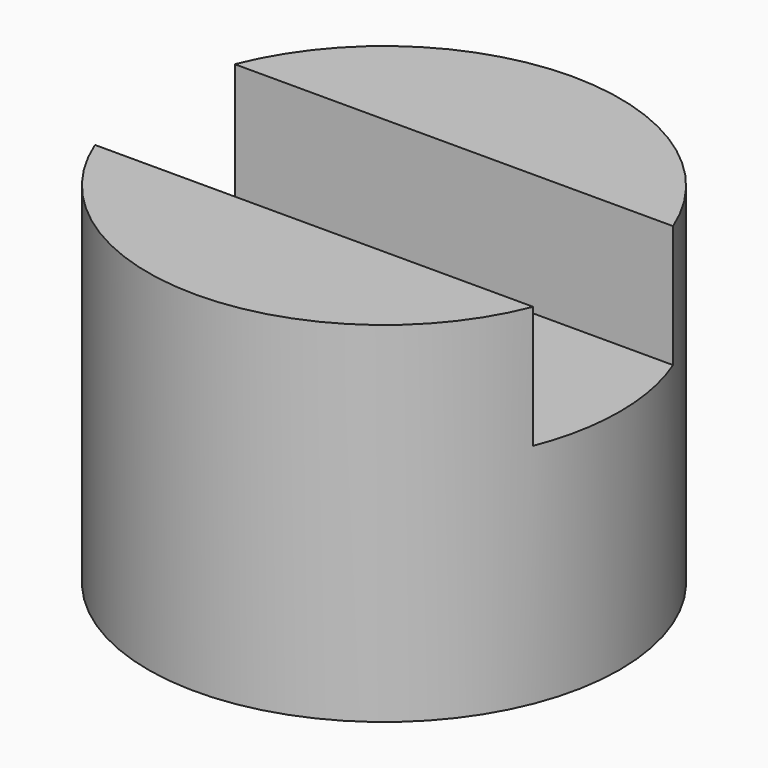
from build123d import *

# Parameters (mm, degrees)
BOX008_W          = 3
BOX008_H          = 1
BOX008_DEPTH      = 0.7
CYLINDER004_R     = 1.35
CYLINDER004_DEPTH = 2


with BuildPart() as cube004:
    # Box008 → Box008 (new body)
    with BuildSketch(Plane(origin=(-1.5, -0.5, 1.3), x_dir=(1, 0, 0), z_dir=(0, 0, 1))):
        with Locations((1.5, 0.5)):
            Rectangle(BOX008_W, BOX008_H)
    extrude(amount=BOX008_DEPTH)


with BuildPart() as cut008:
    # Cylinder004 → Cylinder004 (new body)
    with BuildSketch(Plane.XY):
        Circle(CYLINDER004_R)
    extrude(amount=CYLINDER004_DEPTH)

    # Cut008: cut Cube004
    add(cube004.part, mode=Mode.SUBTRACT)


with BuildPart() as cut008_1:
    # Cut008 placement: moved
    add(cut008.part.moved(Location((-5.25, 4.1, 10))))


solid = cut008_1.part
